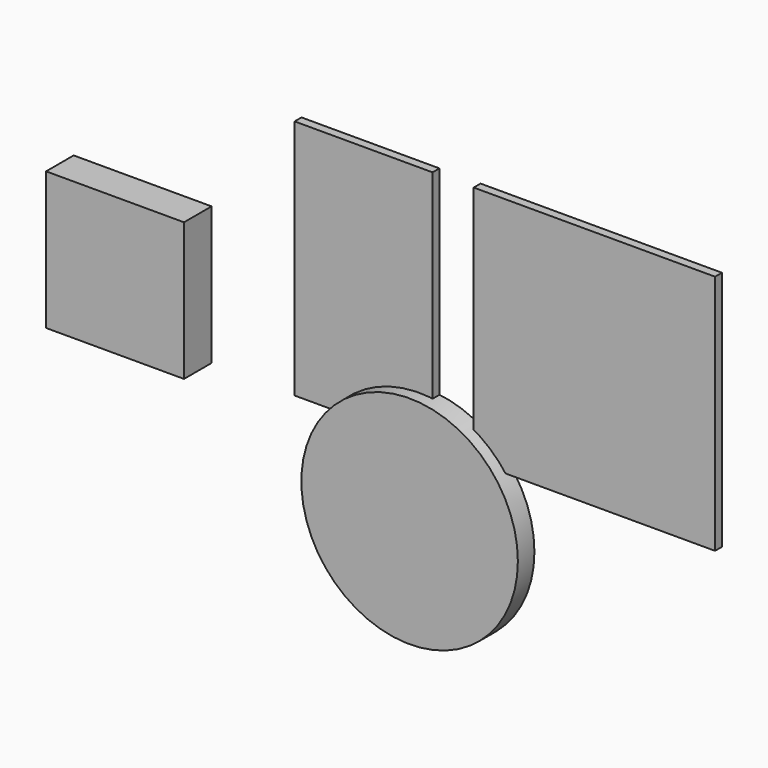
from build123d import *

# Parameters (mm, degrees)
F0_W     = 177.8
F0_H     = 177.8
F2_DEPTH = 6.35
F1_W     = 101.6
F1_H     = 177.8
F3_DEPTH = 6.35
F4_R     = 79.756
F5_DEPTH = 15.24
F6_W     = 101.6
F6_H     = 101.6
F7_DEPTH = 25.4


with BuildPart() as f2:
    # F0 (on Front) → F2 (new body)
    with BuildSketch(Plane.XZ):
        with Locations((88.9, 88.9)):
            Rectangle(F0_W, F0_H)
    extrude(amount=F2_DEPTH)


with BuildPart() as f3:
    # F1 (on Front) → F3 (new body)
    with BuildSketch(Plane.XZ):
        with Locations((-81.097622, 88.9)):
            Rectangle(F1_W, F1_H)
    extrude(amount=F3_DEPTH)


with BuildPart() as f5:
    # F4 (on Front) → F5 (new body)
    with BuildSketch(Plane.XZ):
        with Locations((-40.07576, -48.07923)):
            Circle(F4_R)
    extrude(amount=F5_DEPTH)


with BuildPart() as f7:
    # F6 (on Front) → F7 (new body)
    with BuildSketch(Plane.XZ):
        with Locations((-248.957336, 47.769103)):
            Rectangle(F6_W, F6_H)
    extrude(amount=F7_DEPTH)


solid = Compound([f2.part, f3.part, f5.part, f7.part])
